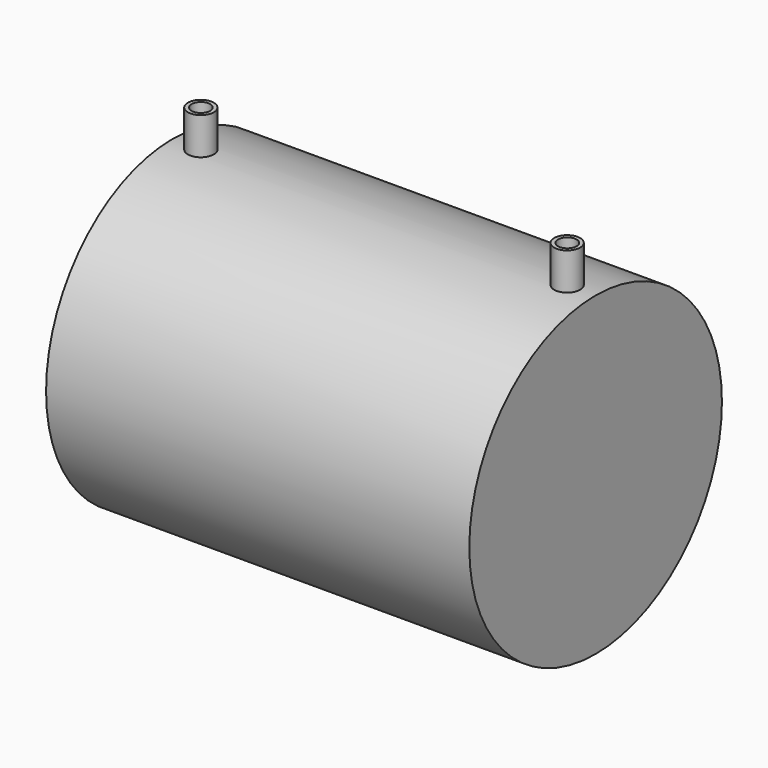
from build123d import *

# Parameters (mm, degrees)
F0_R      = 42.525
F0_R_2    = 40.025
F1_DEPTH  = 50
F2_R      = 42.525
F3_DEPTH  = 7
F6_D      = 15.05
F6_DEPTH  = 12
F6_TIP    = 4.5214761582
F8_R      = 3.5
F9_DEPTH  = 10
F11_D     = 5
F11_DEPTH = 15
F11_TIP   = 1.5021515476


with BuildPart() as f1:
    # F0 (on Right) → F1 (new body, symmetric)
    with BuildSketch(Plane.YZ):
        Circle(F0_R)
        Circle(F0_R_2, mode=Mode.SUBTRACT)
    extrude(amount=F1_DEPTH, both=True)

    # F4: F3 across plane


with BuildPart() as f3:
    # F2 (on face) → F3 (new body)
    with BuildSketch(Plane.YZ.offset(50)):
        Circle(F2_R)
    extrude(amount=F3_DEPTH)


with BuildPart() as f1_1:
    add(f1.part)
    add(f3.part.mirror(Plane.YZ))

    # F6
    with Locations(Plane(origin=(-57, 0, 0), x_dir=(0, -1, 0), z_dir=(-1, 0, 0))):
        with Locations((0, 0)):
            Hole(F6_D / 2, depth=F6_DEPTH)
            with Locations((0, 0, -(F6_DEPTH + F6_TIP / 2))):  # 118° drill point
                Cone(0, F6_D / 2, F6_TIP, mode=Mode.SUBTRACT)


    add(f3.part)  # F9 merges F3
    # F8 (on offset) → F9 (join)
    with BuildSketch(Plane.XY.offset(42.5)):
        with Locations((-49.3345595896, 0)):
            Circle(F8_R)
        with Locations((49.3345595896, 0)):
            Circle(F8_R)
    extrude(amount=F9_DEPTH)

    # F11
    with Locations(Plane.XY.offset(52.5)):
        with Locations((-49.3345595896, 0), (49.3685118854, 0)):
            Hole(F11_D / 2, depth=F11_DEPTH)
            with Locations((0, 0, -(F11_DEPTH + F11_TIP / 2))):  # 118° drill point
                Cone(0, F11_D / 2, F11_TIP, mode=Mode.SUBTRACT)


solid = f1_1.part
